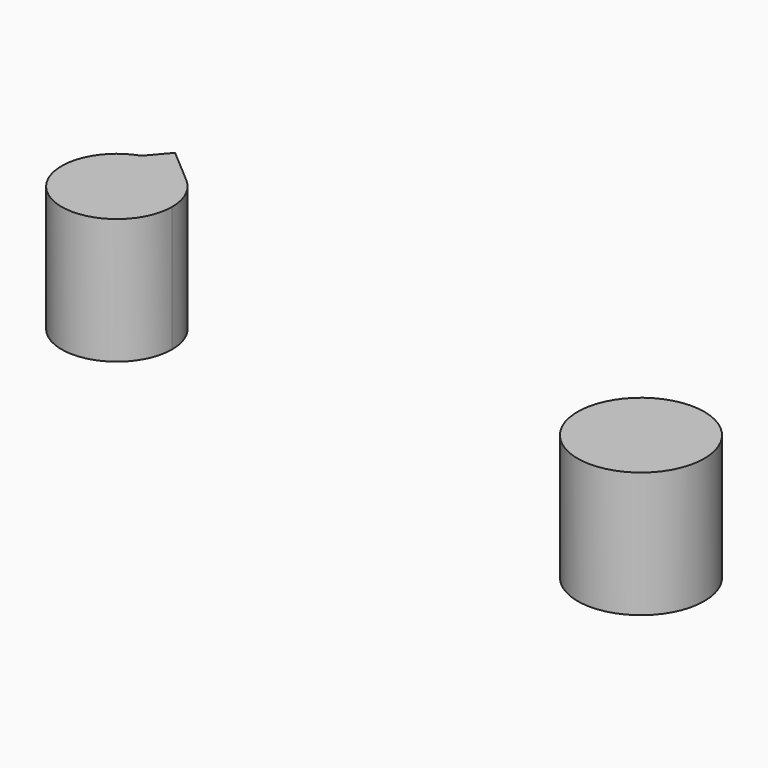
from build123d import *

# Parameters (mm, degrees)
F0_R     = 6.405725
F1_DEPTH = 12.7


with BuildPart() as f1:
    # F0 (on Top) → F1 (new body)
    with BuildSketch(Plane.XY):
        with BuildLine():
            ThreePointArc((-54.2233, -19.237781), (-51.382655, -19.056739), (-48.821105, -20.297909))
            Line((-48.821105, -20.297909), (-52.459139, -17.179593))
            Line((-52.459139, -17.179593), (-54.2233, -19.237781))
        make_face()
        with BuildLine():
            ThreePointArc((-46.868972, -24.54228), (-47.3804, -22.206391), (-48.821105, -20.297909))
            ThreePointArc((-48.821105, -20.297909), (-51.382655, -19.056739), (-54.2233, -19.237781))
            Line((-54.2233, -19.237781), (-57.971045, -23.610149))
            ThreePointArc((-57.971045, -23.610149), (-52.926845, -30.112847), (-46.868972, -24.54228))
        make_face()
        with BuildLine():
            Line((-57.971045, -23.610149), (-54.2233, -19.237781))
            ThreePointArc((-54.2233, -19.237781), (-56.703511, -20.904246), (-57.971045, -23.610149))
        make_face()
        with Locations((6.442348, -31.904966)):
            Circle(F0_R)
    extrude(amount=F1_DEPTH)


solid = f1.part
